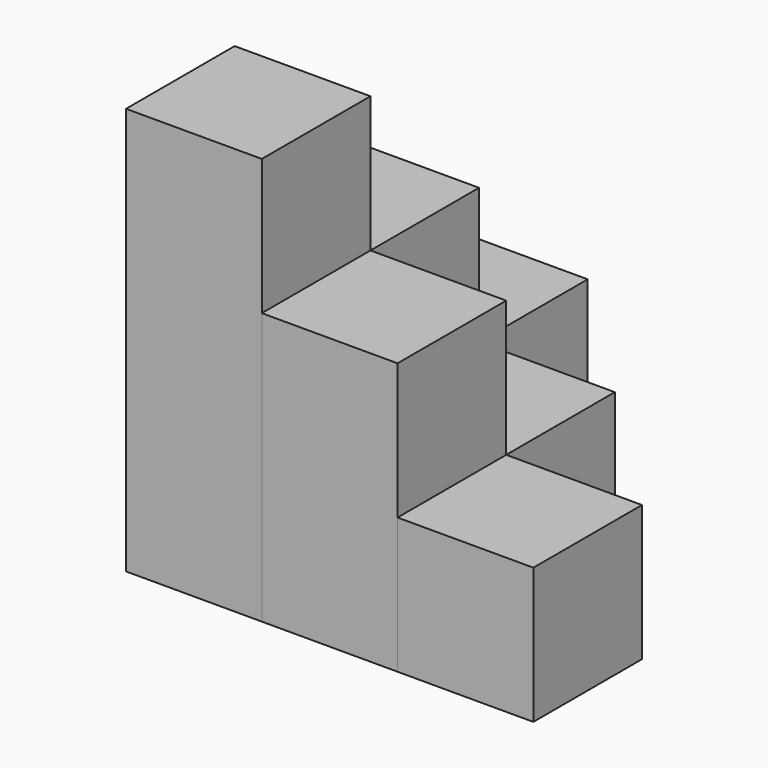
from build123d import *

# Parameters (mm, degrees)
BOX_W        = 10
BOX_H        = 10
BOX_DEPTH    = 30
BOX001_W     = 10
BOX001_H     = 10
BOX001_DEPTH = 20
BOX002_W     = 10
BOX002_H     = 10
BOX002_DEPTH = 20
BOX003_W     = 10
BOX003_H     = 10
BOX003_DEPTH = 10
BOX004_W     = 10
BOX004_H     = 10
BOX004_DEPTH = 10
BOX005_W     = 10
BOX005_H     = 10
BOX005_DEPTH = 10


with BuildPart() as cubo30:
    # Box → Box (new body)
    with BuildSketch(Plane.XY):
        with Locations((5, 5)):
            Rectangle(BOX_W, BOX_H)
    extrude(amount=BOX_DEPTH)


with BuildPart() as box001:
    # Box001 → Box001 (new body)
    with BuildSketch(Plane(origin=(10, 0, 0), x_dir=(1, 0, 0), z_dir=(0, 0, 1))):
        with Locations((5, 5)):
            Rectangle(BOX001_W, BOX001_H)
    extrude(amount=BOX001_DEPTH)


with BuildPart() as box002:
    # Box002 → Box002 (new body)
    with BuildSketch(Plane(origin=(0, 10, 0), x_dir=(1, 0, 0), z_dir=(0, 0, 1))):
        with Locations((5, 5)):
            Rectangle(BOX002_W, BOX002_H)
    extrude(amount=BOX002_DEPTH)


with BuildPart() as box003:
    # Box003 → Box003 (new body)
    with BuildSketch(Plane(origin=(10, 10, 0), x_dir=(1, 0, 0), z_dir=(0, 0, 1))):
        with Locations((5, 5)):
            Rectangle(BOX003_W, BOX003_H)
    extrude(amount=BOX003_DEPTH)


with BuildPart() as box004:
    # Box004 → Box004 (new body)
    with BuildSketch(Plane(origin=(0, 20, 0), x_dir=(1, 0, 0), z_dir=(0, 0, 1))):
        with Locations((5, 5)):
            Rectangle(BOX004_W, BOX004_H)
    extrude(amount=BOX004_DEPTH)


with BuildPart() as box005:
    # Box005 → Box005 (new body)
    with BuildSketch(Plane(origin=(20, 0, 0), x_dir=(1, 0, 0), z_dir=(0, 0, 1))):
        with Locations((5, 5)):
            Rectangle(BOX005_W, BOX005_H)
    extrude(amount=BOX005_DEPTH)


solid = Compound([cubo30.part, box001.part, box002.part, box003.part, box004.part, box005.part])
